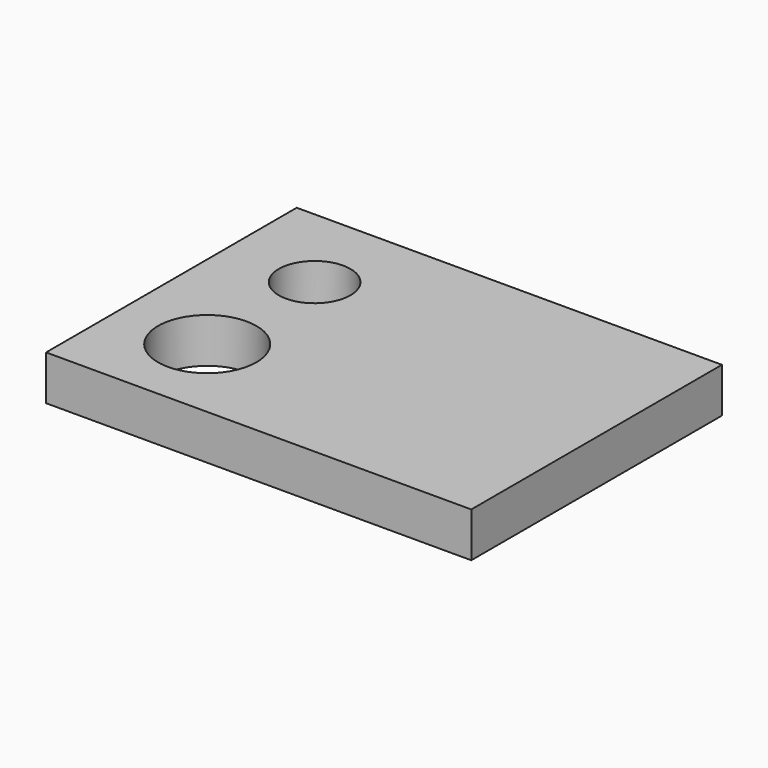
from build123d import *

# Parameters (mm, degrees)
SKETCH_W   = 95
SKETCH_H   = 70
SKETCH_R   = 8
SKETCH_R_2 = 11
PAD_DEPTH  = 10


with BuildPart() as part:
    # Sketch → Pad (new body)
    with BuildSketch(Plane.XY):
        with Locations((27.5, -15)):
            Rectangle(SKETCH_W, SKETCH_H)
        Circle(SKETCH_R, mode=Mode.SUBTRACT)
        with Locations((0, -30)):
            Circle(SKETCH_R_2, mode=Mode.SUBTRACT)
    extrude(amount=PAD_DEPTH)


solid = part.part
